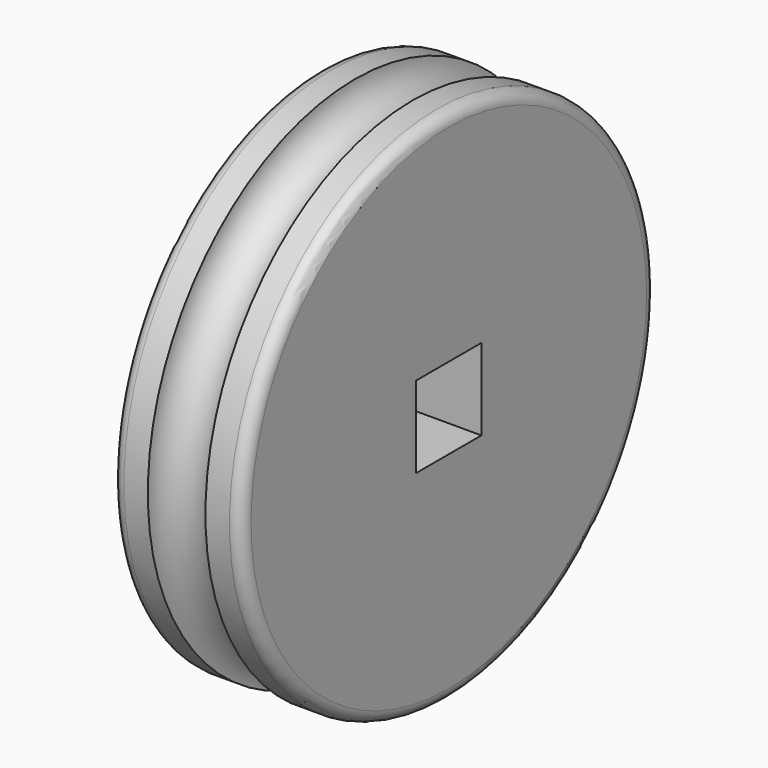
from build123d import *

# Parameters (mm, degrees)
SKETCH009_W      = 4.24264
SKETCH009_H      = 4.24264
EXTRUDE004_DEPTH = 10


with BuildPart() as extrude004:
    # Sketch009 (on Face5 of Revolve001) → Extrude004 (new body)
    with BuildSketch(Plane.YZ.offset(30)):
        Rectangle(SKETCH009_W, SKETCH009_H)
    extrude(amount=-EXTRUDE004_DEPTH)


with BuildPart() as driven_wheel:
    # Sketch007 → Revolve001 (revolve)
    with BuildSketch(Plane.XZ):
        with BuildLine():
            Line((20, 4.5), (20, 0))
            Line((20, 0), (23.25, 0))
            Line((30, 0), (23.25, 0))
            Line((30, 12.875), (30, 0))
            ThreePointArc((30, 12.875), (29.816942, 13.316942), (29.375, 13.5))
            Line((28.125, 13.5), (29.375, 13.5))
            ThreePointArc((25.125, 13.5), (26.625, 12), (28.125, 13.5))
            Line((23.875, 13.5), (25.125, 13.5))
            ThreePointArc((23.875, 13.5), (23.433058, 13.316942), (23.25, 12.875))
            Line((23.25, 4.5), (23.25, 12.875))
            Line((23.25, 4.5), (20, 4.5))
        make_face()
    revolve(axis=Axis((0, 0, 0), (1, 0, 0)))

    # Cut: cut Extrude004
    add(extrude004.part, mode=Mode.SUBTRACT)


solid = driven_wheel.part
